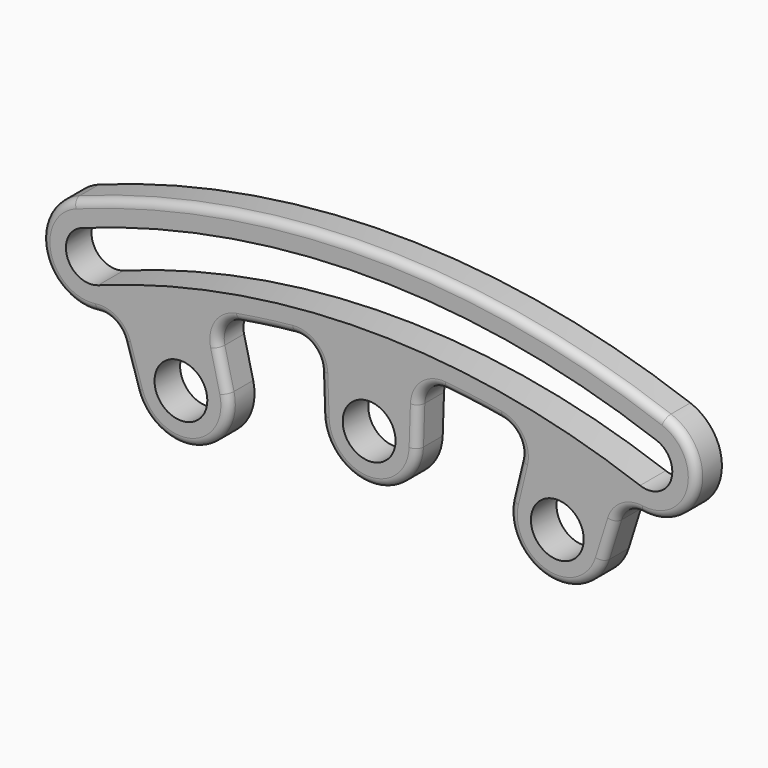
from build123d import *

# Parameters (mm, degrees)
F0_R     = 3.3
F1_DEPTH = 4
F2_R     = 1


with BuildPart() as f1:
    # F0 (on Front) → F1 (new body)
    with BuildSketch(Plane.XZ):
        with BuildLine():
            ThreePointArc((34.044412, 89.907971), (40.707021, 94.393881), (36.938175, 101.486803))
            ThreePointArc((36.938175, 101.486803), (0, 108), (-36.938175, 101.486803))
            ThreePointArc((-36.938175, 101.486803), (-40.707021, 94.393881), (-34.044412, 89.907971))
            ThreePointArc((-34.044412, 89.907971), (-32.023131, 89.475058), (-30.761711, 87.837435))
            Line((-30.761711, 87.837435), (-29.240737, 82.999875))
            ThreePointArc((-29.240737, 82.999875), (-21.913547, 79.017697), (-17.683893, 86.204872))
            Line((-17.683893, 86.204872), (-18.821651, 90.927144))
            ThreePointArc((-18.821651, 90.927144), (-18.41244, 93.277047), (-16.418177, 94.585641))
            ThreePointArc((-16.418177, 94.585641), (-12.945689, 95.123126), (-9.455857, 95.533171))
            ThreePointArc((-9.455857, 95.533171), (-7.184419, 94.805114), (-6.162106, 92.650032))
            Line((-6.162106, 92.650032), (-5.996512, 87.795455))
            ThreePointArc((-5.996512, 87.795455), (0, 82), (5.996512, 87.795455))
            Line((5.996512, 87.795455), (6.162106, 92.650032))
            ThreePointArc((6.162106, 92.650032), (7.184419, 94.805114), (9.455857, 95.533171))
            ThreePointArc((9.455857, 95.533171), (12.945689, 95.123126), (16.418177, 94.585641))
            ThreePointArc((16.418177, 94.585641), (18.41244, 93.277047), (18.821651, 90.927144))
            Line((18.821651, 90.927144), (17.683893, 86.204872))
            ThreePointArc((17.683893, 86.204872), (21.913547, 79.017697), (29.240737, 82.999875))
            Line((29.240737, 82.999875), (30.761711, 87.837435))
            ThreePointArc((30.761711, 87.837435), (32.023131, 89.475058), (34.044412, 89.907971))
        make_face()
        with Locations((-23.516977, 84.79948)):
            Circle(F0_R, mode=Mode.SUBTRACT)
        with Locations((0, 88)):
            Circle(F0_R, mode=Mode.SUBTRACT)
        with Locations((23.516977, 84.79948)):
            Circle(F0_R, mode=Mode.SUBTRACT)
        with BuildLine():
            ThreePointArc((-35.912115, 98.667725), (0, 105), (35.912115, 98.667725))
            ThreePointArc((35.912115, 98.667725), (37.705132, 94.822587), (33.859994, 93.029569))
            ThreePointArc((33.859994, 93.029569), (0, 99), (-33.859994, 93.029569))
            ThreePointArc((-33.859994, 93.029569), (-37.705132, 94.822587), (-35.912115, 98.667725))
        make_face(mode=Mode.SUBTRACT)
    extrude(amount=F1_DEPTH)

    # F2
    f2_edges = [f1.edges().sort_by_distance(p)[0] for p in [
        (0, -4, 108),
    ]]
    fillet(f2_edges, radius=F2_R)


solid = f1.part
